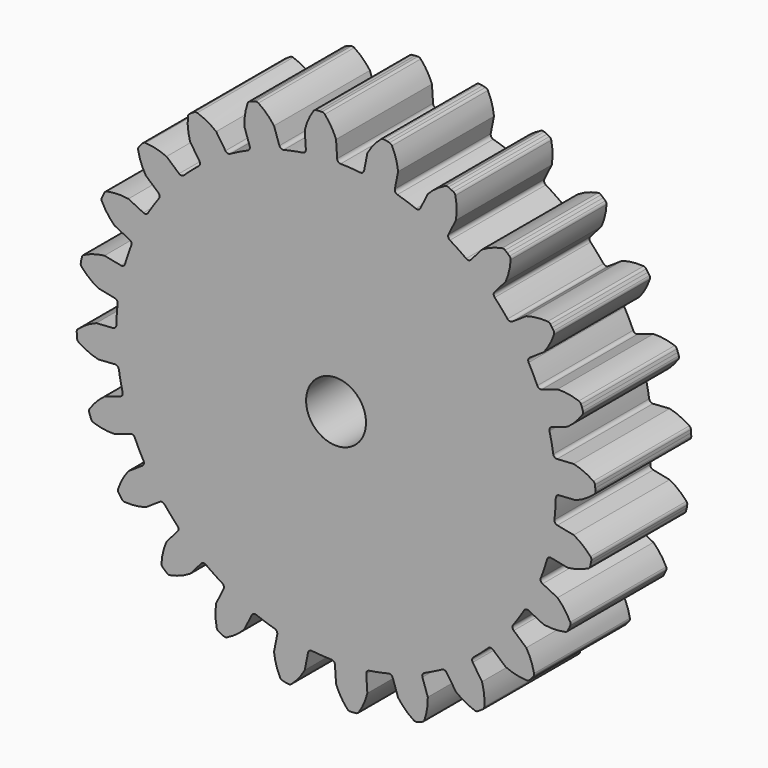
from build123d import *

# Parameters (mm, degrees)
F1_DEPTH = 12.7
F3_D     = 6.35


with BuildPart() as f1:
    # F0 (on Front) → F1 (new body)
    with BuildSketch(Plane.XZ):
        with BuildLine():
            ThreePointArc((-3.19963, 23.416917), (-3.28278, 23.153394), (-3.522178, 23.015383))
            ThreePointArc((-3.522178, 23.015383), (-4.542353, 22.835951), (-5.553537, 22.611321))
            ThreePointArc((-5.553537, 22.611321), (-5.827527, 22.647213), (-6.005194, 22.858856))
            Line((-6.005194, 22.858856), (-6.574004, 24.534516))
            ThreePointArc((-6.574004, 24.534516), (-7.329727, 25.397243), (-8.228309, 26.109959))
            ThreePointArc((-8.228309, 26.109959), (-8.385766, 26.168812), (-8.553225, 26.154178))
            Line((-8.553225, 26.154178), (-8.846322, 26.060423))
            Line((-8.846322, 26.060423), (-9.135926, 25.956378))
            ThreePointArc((-9.135926, 25.956378), (-9.277687, 25.866045), (-9.366779, 25.7235))
            ThreePointArc((-9.366779, 25.7235), (-9.645798, 24.611042), (-9.720159, 23.46654))
            Line((-9.720159, 23.46654), (-9.151349, 21.79088))
            ThreePointArc((-9.151349, 21.79088), (-9.163462, 21.514815), (-9.358983, 21.319546))
            ThreePointArc((-9.358983, 21.319546), (-10.297955, 20.882187), (-11.216546, 20.403498))
            ThreePointArc((-11.216546, 20.403498), (-11.490489, 20.367253), (-11.716879, 20.525701))
            Line((-11.716879, 20.525701), (-12.7, 21.997045))
            ThreePointArc((-12.7, 21.997045), (-13.653263, 22.63478), (-14.705691, 23.09064))
            ThreePointArc((-14.705691, 23.09064), (-14.873015, 23.106735), (-15.03098, 23.049259))
            Line((-15.03098, 23.049259), (-15.289825, 22.88284))
            Line((-15.289825, 22.88284), (-15.542632, 22.707384))
            ThreePointArc((-15.542632, 22.707384), (-15.656183, 22.583439), (-15.705345, 22.422693))
            ThreePointArc((-15.705345, 22.422693), (-15.686932, 21.275925), (-15.46254, 20.151175))
            Line((-15.46254, 20.151175), (-14.479419, 18.67983))
            ThreePointArc((-14.479419, 18.67983), (-14.419668, 18.410037), (-14.557988, 18.170817))
            ThreePointArc((-14.557988, 18.170817), (-15.351768, 17.505337), (-16.115165, 16.80521))
            ThreePointArc((-16.115165, 16.80521), (-16.370393, 16.699298), (-16.630078, 16.793753))
            Line((-16.630078, 16.793753), (-17.960512, 17.960512))
            ThreePointArc((-17.960512, 17.960512), (-19.046351, 18.329794), (-20.180904, 18.497733))
            ThreePointArc((-20.180904, 18.497733), (-20.346693, 18.469973), (-20.484399, 18.373571))
            Line((-20.484399, 18.373571), (-20.691351, 18.145828))
            Line((-20.691351, 18.145828), (-20.890133, 17.91092))
            ThreePointArc((-20.890133, 17.91092), (-20.967736, 17.761809), (-20.973619, 17.593815))
            ThreePointArc((-20.973619, 17.593815), (-20.659028, 16.490889), (-20.151175, 15.46254))
            Line((-20.151175, 15.46254), (-18.820741, 14.295781))
            ThreePointArc((-18.820741, 14.295781), (-18.693198, 14.050646), (-18.76489, 13.783777))
            ThreePointArc((-18.76489, 13.783777), (-19.359384, 12.935527), (-19.915562, 12.061674))
            ThreePointArc((-19.915562, 12.061674), (-20.134681, 11.893314), (-20.409965, 11.917339))
            Line((-20.409965, 11.917339), (-21.997045, 12.7))
            ThreePointArc((-21.997045, 12.7), (-23.141462, 12.775663), (-24.280822, 12.644235))
            ThreePointArc((-24.280822, 12.644235), (-24.433777, 12.574512), (-24.54184, 12.445754))
            Line((-24.54184, 12.445754), (-24.682796, 12.172208))
            Line((-24.682796, 12.172208), (-24.814006, 11.893856))
            ThreePointArc((-24.814006, 11.893856), (-24.850372, 11.72974), (-24.812574, 11.565949))
            ThreePointArc((-24.812574, 11.565949), (-24.223244, 10.582025), (-23.46654, 9.720159))
            Line((-23.46654, 9.720159), (-21.87946, 8.937498))
            ThreePointArc((-21.87946, 8.937498), (-21.692818, 8.733726), (-21.692996, 8.457396))
            ThreePointArc((-21.692996, 8.457396), (-22.04769, 7.484182), (-22.358747, 6.496156))
            ThreePointArc((-22.358747, 6.496156), (-22.526825, 6.27682), (-22.798947, 6.228778))
            Line((-22.798947, 6.228778), (-24.534516, 6.574004))
            ThreePointArc((-24.534516, 6.574004), (-25.659521, 6.350892), (-26.726042, 5.929054))
            ThreePointArc((-26.726042, 5.929054), (-26.855739, 5.822119), (-26.926795, 5.669779))
            Line((-26.926795, 5.669779), (-26.99215, 5.369072))
            Line((-26.99215, 5.369072), (-27.046846, 5.066245))
            ThreePointArc((-27.046846, 5.066245), (-27.039496, 4.89831), (-26.960594, 4.749882))
            ThreePointArc((-26.960594, 4.749882), (-26.136687, 3.952015), (-25.182699, 3.315365))
            Line((-25.182699, 3.315365), (-23.44713, 2.970139))
            ThreePointArc((-23.44713, 2.970139), (-23.214108, 2.821617), (-23.14276, 2.554656))
            ThreePointArc((-23.14276, 2.554656), (-23.233482, 1.522803), (-23.27822, 0.487935))
            ThreePointArc((-23.27822, 0.487935), (-23.383803, 0.232571), (-23.634218, 0.115735))
            Line((-23.634218, 0.115735), (-25.4, 0))
            ThreePointArc((-25.4, 0), (-26.428925, -0.506682), (-27.349927, -1.190182))
            ThreePointArc((-27.349927, -1.190182), (-27.447527, -1.327041), (-27.476734, -1.492581))
            Line((-27.476734, -1.492581), (-27.462033, -1.799957))
            Line((-27.462033, -1.799957), (-27.436488, -2.106622))
            ThreePointArc((-27.436488, -2.106622), (-27.385923, -2.266933), (-27.271294, -2.389882))
            ThreePointArc((-27.271294, -2.389882), (-26.268958, -2.947319), (-25.182699, -3.315365))
            Line((-25.182699, -3.315365), (-23.416917, -3.19963))
            ThreePointArc((-23.416917, -3.19963), (-23.153394, -3.28278), (-23.015383, -3.522178))
            ThreePointArc((-23.015383, -3.522178), (-22.835951, -4.542353), (-22.611321, -5.553537))
            ThreePointArc((-22.611321, -5.553537), (-22.647213, -5.827527), (-22.858856, -6.005194))
            Line((-22.858856, -6.005194), (-24.534516, -6.574004))
            ThreePointArc((-24.534516, -6.574004), (-25.397243, -7.329727), (-26.109959, -8.228309))
            ThreePointArc((-26.109959, -8.228309), (-26.168812, -8.385766), (-26.154178, -8.553225))
            Line((-26.154178, -8.553225), (-26.060423, -8.846322))
            Line((-26.060423, -8.846322), (-25.956378, -9.135926))
            ThreePointArc((-25.956378, -9.135926), (-25.866045, -9.277687), (-25.7235, -9.366779))
            ThreePointArc((-25.7235, -9.366779), (-24.611042, -9.645798), (-23.46654, -9.720159))
            Line((-23.46654, -9.720159), (-21.79088, -9.151349))
            ThreePointArc((-21.79088, -9.151349), (-21.514815, -9.163462), (-21.319546, -9.358983))
            ThreePointArc((-21.319546, -9.358983), (-20.882187, -10.297955), (-20.403498, -11.216546))
            ThreePointArc((-20.403498, -11.216546), (-20.367253, -11.490489), (-20.525701, -11.716879))
            Line((-20.525701, -11.716879), (-21.997045, -12.7))
            ThreePointArc((-21.997045, -12.7), (-22.63478, -13.653263), (-23.09064, -14.705691))
            ThreePointArc((-23.09064, -14.705691), (-23.106735, -14.873015), (-23.049259, -15.03098))
            Line((-23.049259, -15.03098), (-22.88284, -15.289825))
            Line((-22.88284, -15.289825), (-22.707384, -15.542632))
            ThreePointArc((-22.707384, -15.542632), (-22.583439, -15.656183), (-22.422693, -15.705345))
            ThreePointArc((-22.422693, -15.705345), (-21.275925, -15.686932), (-20.151175, -15.46254))
            Line((-20.151175, -15.46254), (-18.67983, -14.479419))
            ThreePointArc((-18.67983, -14.479419), (-18.410037, -14.419668), (-18.170817, -14.557988))
            ThreePointArc((-18.170817, -14.557988), (-17.505337, -15.351768), (-16.80521, -16.115165))
            ThreePointArc((-16.80521, -16.115165), (-16.699298, -16.370393), (-16.793753, -16.630078))
            Line((-16.793753, -16.630078), (-17.960512, -17.960512))
            ThreePointArc((-17.960512, -17.960512), (-18.329794, -19.046351), (-18.497733, -20.180904))
            ThreePointArc((-18.497733, -20.180904), (-18.469973, -20.346693), (-18.373571, -20.484399))
            Line((-18.373571, -20.484399), (-18.145828, -20.691351))
            Line((-18.145828, -20.691351), (-17.91092, -20.890133))
            ThreePointArc((-17.91092, -20.890133), (-17.761809, -20.967736), (-17.593815, -20.973619))
            ThreePointArc((-17.593815, -20.973619), (-16.490889, -20.659028), (-15.46254, -20.151175))
            Line((-15.46254, -20.151175), (-14.295781, -18.820741))
            ThreePointArc((-14.295781, -18.820741), (-14.050646, -18.693198), (-13.783777, -18.76489))
            ThreePointArc((-13.783777, -18.76489), (-12.935527, -19.359384), (-12.061674, -19.915562))
            ThreePointArc((-12.061674, -19.915562), (-10.297955, -20.882187), (-8.457396, -21.692996))
            ThreePointArc((-8.457396, -21.692996), (-7.484182, -22.04769), (-6.496156, -22.358747))
            ThreePointArc((-6.496156, -22.358747), (-6.27682, -22.526825), (-6.228778, -22.798947))
            Line((-6.228778, -22.798947), (-6.574004, -24.534516))
            ThreePointArc((-6.574004, -24.534516), (-6.350892, -25.659521), (-5.929054, -26.726042))
            ThreePointArc((-5.929054, -26.726042), (-5.822119, -26.855739), (-5.669779, -26.926795))
            Line((-5.669779, -26.926795), (-5.369072, -26.99215))
            Line((-5.369072, -26.99215), (-5.066245, -27.046846))
            ThreePointArc((-5.066245, -27.046846), (-4.89831, -27.039496), (-4.749882, -26.960594))
            ThreePointArc((-4.749882, -26.960594), (-3.952015, -26.136687), (-3.315365, -25.182699))
            Line((-3.315365, -25.182699), (-2.970139, -23.44713))
            ThreePointArc((-2.970139, -23.44713), (-2.821617, -23.214108), (-2.554656, -23.14276))
            ThreePointArc((-2.554656, -23.14276), (-1.522803, -23.233482), (-0.487935, -23.27822))
            ThreePointArc((-0.487935, -23.27822), (-0.232571, -23.383803), (-0.115735, -23.634218))
            Line((-0.115735, -23.634218), (0, -25.4))
            ThreePointArc((0, -25.4), (0.506682, -26.428925), (1.190182, -27.349927))
            ThreePointArc((1.190182, -27.349927), (1.327041, -27.447527), (1.492581, -27.476734))
            Line((1.492581, -27.476734), (1.799957, -27.462033))
            Line((1.799957, -27.462033), (2.106622, -27.436488))
            ThreePointArc((2.106622, -27.436488), (2.266933, -27.385923), (2.389882, -27.271294))
            ThreePointArc((2.389882, -27.271294), (2.947319, -26.268958), (3.315365, -25.182699))
            Line((3.315365, -25.182699), (3.19963, -23.416917))
            ThreePointArc((3.19963, -23.416917), (3.28278, -23.153394), (3.522178, -23.015383))
            ThreePointArc((3.522178, -23.015383), (4.542353, -22.835951), (5.553537, -22.611321))
            ThreePointArc((5.553537, -22.611321), (5.827527, -22.647213), (6.005194, -22.858856))
            Line((6.005194, -22.858856), (6.574004, -24.534516))
            ThreePointArc((6.574004, -24.534516), (7.329727, -25.397243), (8.228309, -26.109959))
            ThreePointArc((8.228309, -26.109959), (8.385766, -26.168812), (8.553225, -26.154178))
            Line((8.553225, -26.154178), (8.846322, -26.060423))
            Line((8.846322, -26.060423), (9.135926, -25.956378))
            ThreePointArc((9.135926, -25.956378), (9.277687, -25.866045), (9.366779, -25.7235))
            ThreePointArc((9.366779, -25.7235), (9.645798, -24.611042), (9.720159, -23.46654))
            Line((9.720159, -23.46654), (9.151349, -21.79088))
            ThreePointArc((9.151349, -21.79088), (9.163462, -21.514815), (9.358983, -21.319546))
            ThreePointArc((9.358983, -21.319546), (10.297955, -20.882187), (11.216546, -20.403498))
            ThreePointArc((11.216546, -20.403498), (11.490489, -20.367253), (11.716879, -20.525701))
            Line((11.716879, -20.525701), (12.7, -21.997045))
            ThreePointArc((12.7, -21.997045), (13.653263, -22.63478), (14.705691, -23.09064))
            ThreePointArc((14.705691, -23.09064), (14.873015, -23.106735), (15.03098, -23.049259))
            Line((15.03098, -23.049259), (15.289825, -22.88284))
            Line((15.289825, -22.88284), (15.542632, -22.707384))
            ThreePointArc((15.542632, -22.707384), (15.656183, -22.583439), (15.705345, -22.422693))
            ThreePointArc((15.705345, -22.422693), (15.686932, -21.275925), (15.46254, -20.151175))
            Line((15.46254, -20.151175), (14.479419, -18.67983))
            ThreePointArc((14.479419, -18.67983), (14.419668, -18.410037), (14.557988, -18.170817))
            ThreePointArc((14.557988, -18.170817), (15.351768, -17.505337), (16.115165, -16.80521))
            ThreePointArc((16.115165, -16.80521), (16.370393, -16.699298), (16.630078, -16.793753))
            Line((16.630078, -16.793753), (17.960512, -17.960512))
            ThreePointArc((17.960512, -17.960512), (19.046351, -18.329794), (20.180904, -18.497733))
            ThreePointArc((20.180904, -18.497733), (20.346693, -18.469973), (20.484399, -18.373571))
            Line((20.484399, -18.373571), (20.691351, -18.145828))
            Line((20.691351, -18.145828), (20.890133, -17.91092))
            ThreePointArc((20.890133, -17.91092), (20.967736, -17.761809), (20.973619, -17.593815))
            ThreePointArc((20.973619, -17.593815), (20.659028, -16.490889), (20.151175, -15.46254))
            Line((20.151175, -15.46254), (18.820741, -14.295781))
            ThreePointArc((18.820741, -14.295781), (18.693198, -14.050646), (18.76489, -13.783777))
            ThreePointArc((18.76489, -13.783777), (19.359384, -12.935527), (19.915562, -12.061674))
            ThreePointArc((19.915562, -12.061674), (20.134681, -11.893314), (20.409965, -11.917339))
            Line((20.409965, -11.917339), (21.997045, -12.7))
            ThreePointArc((21.997045, -12.7), (23.141462, -12.775663), (24.280822, -12.644235))
            ThreePointArc((24.280822, -12.644235), (24.433777, -12.574512), (24.54184, -12.445754))
            Line((24.54184, -12.445754), (24.682796, -12.172208))
            Line((24.682796, -12.172208), (24.814006, -11.893856))
            ThreePointArc((24.814006, -11.893856), (24.850372, -11.72974), (24.812574, -11.565949))
            ThreePointArc((24.812574, -11.565949), (24.223244, -10.582025), (23.46654, -9.720159))
            Line((23.46654, -9.720159), (21.87946, -8.937498))
            ThreePointArc((21.87946, -8.937498), (21.692818, -8.733726), (21.692996, -8.457396))
            ThreePointArc((21.692996, -8.457396), (22.04769, -7.484182), (22.358747, -6.496156))
            ThreePointArc((22.358747, -6.496156), (22.526825, -6.27682), (22.798947, -6.228778))
            Line((22.798947, -6.228778), (24.534516, -6.574004))
            ThreePointArc((24.534516, -6.574004), (25.659521, -6.350892), (26.726042, -5.929054))
            ThreePointArc((26.726042, -5.929054), (26.855739, -5.822119), (26.926795, -5.669779))
            Line((26.926795, -5.669779), (26.99215, -5.369072))
            Line((26.99215, -5.369072), (27.046846, -5.066245))
            ThreePointArc((27.046846, -5.066245), (27.039496, -4.89831), (26.960594, -4.749882))
            ThreePointArc((26.960594, -4.749882), (26.136687, -3.952015), (25.182699, -3.315365))
            Line((25.182699, -3.315365), (23.44713, -2.970139))
            ThreePointArc((23.44713, -2.970139), (23.214108, -2.821617), (23.14276, -2.554656))
            ThreePointArc((23.14276, -2.554656), (23.233482, -1.522803), (23.27822, -0.487935))
            ThreePointArc((23.27822, -0.487935), (23.383803, -0.232571), (23.634218, -0.115735))
            Line((23.634218, -0.115735), (25.4, 0))
            ThreePointArc((25.4, 0), (26.428925, 0.506682), (27.349927, 1.190182))
            ThreePointArc((27.349927, 1.190182), (27.447527, 1.327041), (27.476734, 1.492581))
            Line((27.476734, 1.492581), (27.462033, 1.799957))
            Line((27.462033, 1.799957), (27.436488, 2.106622))
            ThreePointArc((27.436488, 2.106622), (27.385923, 2.266933), (27.271294, 2.389882))
            ThreePointArc((27.271294, 2.389882), (26.268958, 2.947319), (25.182699, 3.315365))
            Line((25.182699, 3.315365), (23.416917, 3.19963))
            ThreePointArc((23.416917, 3.19963), (23.153394, 3.28278), (23.015383, 3.522178))
            ThreePointArc((23.015383, 3.522178), (22.835951, 4.542353), (22.611321, 5.553537))
            ThreePointArc((22.611321, 5.553537), (22.647213, 5.827527), (22.858856, 6.005194))
            Line((22.858856, 6.005194), (24.534516, 6.574004))
            ThreePointArc((24.534516, 6.574004), (25.397243, 7.329727), (26.109959, 8.228309))
            ThreePointArc((26.109959, 8.228309), (26.168812, 8.385766), (26.154178, 8.553225))
            Line((26.154178, 8.553225), (26.060423, 8.846322))
            Line((26.060423, 8.846322), (25.956378, 9.135926))
            ThreePointArc((25.956378, 9.135926), (25.866045, 9.277687), (25.7235, 9.366779))
            ThreePointArc((25.7235, 9.366779), (24.611042, 9.645798), (23.46654, 9.720159))
            Line((23.46654, 9.720159), (21.79088, 9.151349))
            ThreePointArc((21.79088, 9.151349), (21.514815, 9.163462), (21.319546, 9.358983))
            ThreePointArc((21.319546, 9.358983), (20.882187, 10.297955), (20.403498, 11.216546))
            ThreePointArc((20.403498, 11.216546), (20.367253, 11.490489), (20.525701, 11.716879))
            Line((20.525701, 11.716879), (21.997045, 12.7))
            ThreePointArc((21.997045, 12.7), (22.63478, 13.653263), (23.09064, 14.705691))
            ThreePointArc((23.09064, 14.705691), (23.106735, 14.873015), (23.049259, 15.03098))
            Line((23.049259, 15.03098), (22.88284, 15.289825))
            Line((22.88284, 15.289825), (22.707384, 15.542632))
            ThreePointArc((22.707384, 15.542632), (22.583439, 15.656183), (22.422693, 15.705345))
            ThreePointArc((22.422693, 15.705345), (21.275925, 15.686932), (20.151175, 15.46254))
            Line((20.151175, 15.46254), (18.67983, 14.479419))
            ThreePointArc((18.67983, 14.479419), (18.410037, 14.419668), (18.170817, 14.557988))
            ThreePointArc((18.170817, 14.557988), (17.505337, 15.351768), (16.80521, 16.115165))
            ThreePointArc((16.80521, 16.115165), (16.699298, 16.370393), (16.793753, 16.630078))
            Line((16.793753, 16.630078), (17.960512, 17.960512))
            ThreePointArc((17.960512, 17.960512), (18.329794, 19.046351), (18.497733, 20.180904))
            ThreePointArc((18.497733, 20.180904), (18.469973, 20.346693), (18.373571, 20.484399))
            Line((18.373571, 20.484399), (18.145828, 20.691351))
            Line((18.145828, 20.691351), (17.91092, 20.890133))
            ThreePointArc((17.91092, 20.890133), (17.761809, 20.967736), (17.593815, 20.973619))
            ThreePointArc((17.593815, 20.973619), (16.490889, 20.659028), (15.46254, 20.151175))
            Line((15.46254, 20.151175), (14.295781, 18.820741))
            ThreePointArc((14.295781, 18.820741), (14.050646, 18.693198), (13.783777, 18.76489))
            ThreePointArc((13.783777, 18.76489), (12.935527, 19.359384), (12.061674, 19.915562))
            ThreePointArc((12.061674, 19.915562), (11.893314, 20.134681), (11.917339, 20.409965))
            Line((11.917339, 20.409965), (12.7, 21.997045))
            ThreePointArc((12.7, 21.997045), (12.775663, 23.141462), (12.644235, 24.280822))
            ThreePointArc((12.644235, 24.280822), (12.574512, 24.433777), (12.445754, 24.54184))
            Line((12.445754, 24.54184), (12.172208, 24.682796))
            Line((12.172208, 24.682796), (11.893856, 24.814006))
            ThreePointArc((11.893856, 24.814006), (11.72974, 24.850372), (11.565949, 24.812574))
            ThreePointArc((11.565949, 24.812574), (10.582025, 24.223244), (9.720159, 23.46654))
            Line((9.720159, 23.46654), (8.937498, 21.87946))
            ThreePointArc((8.937498, 21.87946), (8.733726, 21.692818), (8.457396, 21.692996))
            ThreePointArc((8.457396, 21.692996), (7.484182, 22.04769), (6.496156, 22.358747))
            ThreePointArc((6.496156, 22.358747), (6.27682, 22.526825), (6.228778, 22.798947))
            Line((6.228778, 22.798947), (6.574004, 24.534516))
            ThreePointArc((6.574004, 24.534516), (6.350892, 25.659521), (5.929054, 26.726042))
            ThreePointArc((5.929054, 26.726042), (5.822119, 26.855739), (5.669779, 26.926795))
            Line((5.669779, 26.926795), (5.369072, 26.99215))
            Line((5.369072, 26.99215), (5.066245, 27.046846))
            ThreePointArc((5.066245, 27.046846), (4.89831, 27.039496), (4.749882, 26.960594))
            ThreePointArc((4.749882, 26.960594), (3.952015, 26.136687), (3.315365, 25.182699))
            Line((3.315365, 25.182699), (2.970139, 23.44713))
            ThreePointArc((2.970139, 23.44713), (2.821617, 23.214108), (2.554656, 23.14276))
            ThreePointArc((2.554656, 23.14276), (1.522803, 23.233482), (0.487935, 23.27822))
            ThreePointArc((0.487935, 23.27822), (0.232571, 23.383803), (0.115735, 23.634218))
            Line((0.115735, 23.634218), (0, 25.4))
            ThreePointArc((0, 25.4), (-0.506682, 26.428925), (-1.190182, 27.349927))
            ThreePointArc((-1.190182, 27.349927), (-1.327041, 27.447527), (-1.492581, 27.476734))
            Line((-1.492581, 27.476734), (-1.799957, 27.462033))
            Line((-1.799957, 27.462033), (-2.106622, 27.436488))
            ThreePointArc((-2.106622, 27.436488), (-2.266933, 27.385923), (-2.389882, 27.271294))
            ThreePointArc((-2.389882, 27.271294), (-2.947319, 26.268958), (-3.315365, 25.182699))
            Line((-3.315365, 25.182699), (-3.19963, 23.416917))
        make_face()
        with BuildLine():
            ThreePointArc((-8.457396, -21.692996), (-10.297955, -20.882187), (-12.061674, -19.915562))
            ThreePointArc((-12.061674, -19.915562), (-11.893314, -20.134681), (-11.917339, -20.409965))
            Line((-11.917339, -20.409965), (-12.7, -21.997045))
            ThreePointArc((-12.7, -21.997045), (-12.775663, -23.141462), (-12.644235, -24.280822))
            ThreePointArc((-12.644235, -24.280822), (-12.574512, -24.433777), (-12.445754, -24.54184))
            Line((-12.445754, -24.54184), (-12.172208, -24.682796))
            Line((-12.172208, -24.682796), (-11.893856, -24.814006))
            ThreePointArc((-11.893856, -24.814006), (-11.72974, -24.850372), (-11.565949, -24.812574))
            ThreePointArc((-11.565949, -24.812574), (-10.582025, -24.223244), (-9.720159, -23.46654))
            Line((-9.720159, -23.46654), (-8.937498, -21.87946))
            ThreePointArc((-8.937498, -21.87946), (-8.733726, -21.692818), (-8.457396, -21.692996))
        make_face()
    extrude(amount=F1_DEPTH)

    # F3 (through all)
    with Locations(Plane.XZ.offset(12.7)):
        with Locations((0, 0)):
            Hole(F3_D / 2)


solid = f1.part
